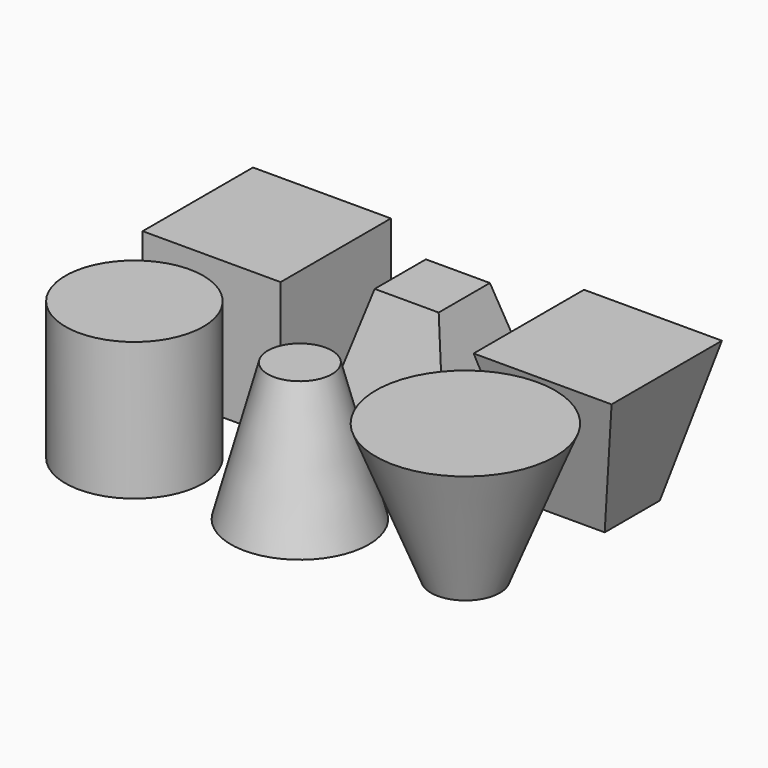
from build123d import *

# Parameters (mm, degrees)
F0_R     = 50
F1_DEPTH = 100
F3_DEPTH = 100
F3_TAPER = 15
F4_R     = 65
F0_R_2   = 25
F0_W     = 100
F0_H     = 100
F6_DEPTH = 100
F6_TAPER = 15
F7_DEPTH = 100
F8_W     = 100
F8_H     = 100
F0_W_2   = 50
F0_H_2   = 50


with BuildPart() as f1:
    # F0 (on Top) → F1 (new body)
    with BuildSketch(Plane.XY):
        Circle(F0_R)
    extrude(amount=F1_DEPTH)


with BuildPart() as f3:
    # F0 (on Top) → F3 (new body)
    with BuildSketch(Plane.XY):
        with Locations((120, 0)):
            Circle(F0_R)
    extrude(amount=F3_DEPTH, taper=F3_TAPER)


with BuildPart() as f5:
    # F4 (on offset) → F5 section 0
    with BuildSketch(Plane.XY.offset(100)):
        with Locations((240, 0)):
            Circle(F4_R)
    # F0 (on Top) → F5 section 1
    with BuildSketch(Plane.XY):
        with Locations((240, 0)):
            Circle(F0_R_2)
    loft()


with BuildPart() as f6:
    # F0 (on Top) → F6 (new body)
    with BuildSketch(Plane.XY):
        with Locations((120, 120)):
            Rectangle(F0_W, F0_H)
    extrude(amount=F6_DEPTH, taper=F6_TAPER)


with BuildPart() as f7:
    # F0 (on Top) → F7 (new body)
    with BuildSketch(Plane.XY):
        with Locations((0, 120)):
            Rectangle(F0_W, F0_H)
    extrude(amount=F7_DEPTH)


with BuildPart() as f9:
    # F8 (on offset) → F9 section 0
    with BuildSketch(Plane.XY.offset(100)):
        with Locations((240, 120)):
            Rectangle(F8_W, F8_H)
    # F0 (on Top) → F9 section 1
    with BuildSketch(Plane.XY):
        with Locations((240, 120)):
            Rectangle(F0_W_2, F0_H_2)
    loft()


solid = Compound([f1.part, f3.part, f5.part, f6.part, f7.part, f9.part])
